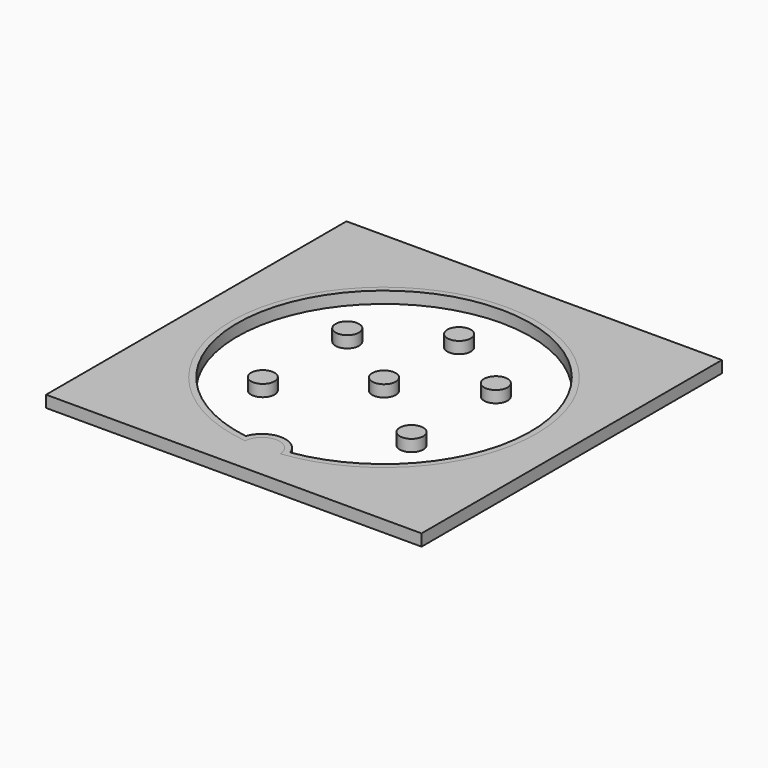
from build123d import *

# Parameters (mm, degrees)
F0_R     = 1
F1_DEPTH = 1
F0_W     = 32
F0_H     = 32
F2_DEPTH = 1


with BuildPart() as f1:
    # F0 (on Top) → F1 (new body)
    with BuildSketch(Plane.XY):
        with BuildLine():
            ThreePointArc((-1.497512, -12.91343), (-0.000175, -11.499793), (1.497491, -12.91308))
            ThreePointArc((1.497491, -12.91308), (-0.003042, 13.000207), (-1.497512, -12.91343))
        make_face()
        with BuildLine():
            ThreePointArc((-1.893476, -12.355784), (-0.002984, 12.500207), (1.893325, -12.355341))
            ThreePointArc((1.893325, -12.355341), (-0.000234, -10.999793), (-1.893476, -12.355784))
        make_face(mode=Mode.SUBTRACT)
        with Locations((-6.331002, 3.999372)):
            Circle(F0_R)
        with Locations((-0.001521, 8.002265)):
            Circle(F0_R)
        with Locations((6.329927, 3.99835)):
            Circle(F0_R)
        Circle(F0_R)
        with Locations((-6.331002, -5.002071)):
            Circle(F0_R)
        with Locations((6.344654, -5.002071)):
            Circle(F0_R)
    extrude(amount=F1_DEPTH)


with BuildPart() as f2:
    # F0 (on Top) → F2 (new body)
    with BuildSketch(Plane.XY):
        with Locations((-0.001521, 0.000207)):
            Rectangle(F0_W, F0_H)
        with BuildLine():
            ThreePointArc((-1.497512, -12.91343), (-0.003042, 13.000207), (1.497491, -12.91308))
            ThreePointArc((1.497491, -12.91308), (-0.000175, -11.499793), (-1.497512, -12.91343))
        make_face(mode=Mode.SUBTRACT)
    extrude(amount=F2_DEPTH)


solid = Compound([f1.part, f2.part])
